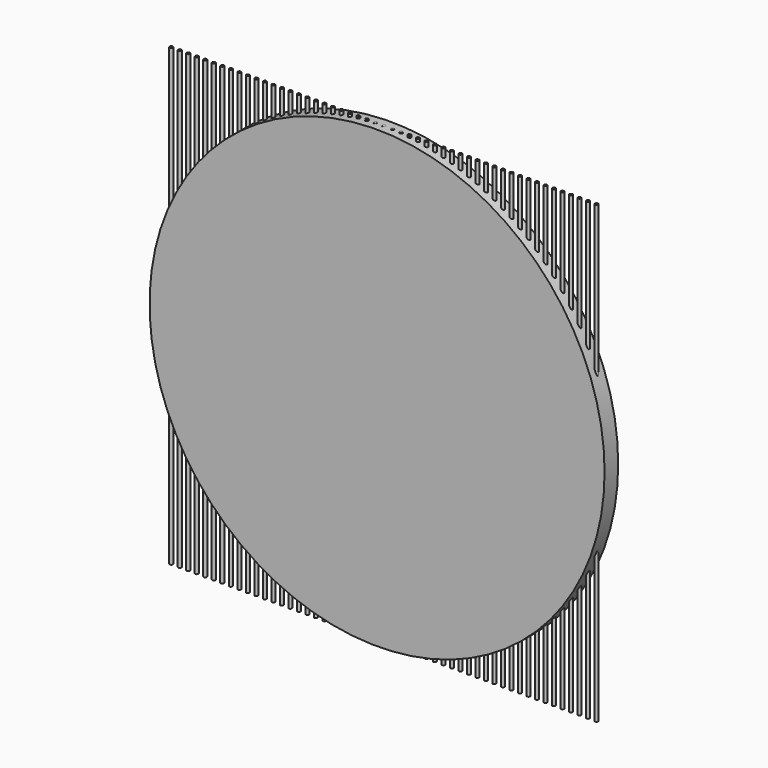
from build123d import *

# Parameters (mm, degrees)
F0_R     = 2.3876
F1_DEPTH = 679.45
F2_R     = 339.725
F3_DEPTH = 12.7


with BuildPart() as f1:
    # F0 (on Top) → F1 (new body)
    with BuildSketch(Plane.XY):
        Circle(F0_R)
        with Locations((12.7, 0)):
            Circle(F0_R)
        with Locations((25.4, 0)):
            Circle(F0_R)
        with Locations((38.1, 0)):
            Circle(F0_R)
        with Locations((50.8, 0)):
            Circle(F0_R)
        with Locations((63.5, 0)):
            Circle(F0_R)
        with Locations((76.2, 0)):
            Circle(F0_R)
        with Locations((88.9, 0)):
            Circle(F0_R)
        with Locations((101.6, 0)):
            Circle(F0_R)
        with Locations((114.3, 0)):
            Circle(F0_R)
        with Locations((127, 0)):
            Circle(F0_R)
        with Locations((139.7, 0)):
            Circle(F0_R)
        with Locations((152.4, 0)):
            Circle(F0_R)
        with Locations((165.1, 0)):
            Circle(F0_R)
        with Locations((177.8, 0)):
            Circle(F0_R)
        with Locations((190.5, 0)):
            Circle(F0_R)
        with Locations((203.2, 0)):
            Circle(F0_R)
        with Locations((215.9, 0)):
            Circle(F0_R)
        with Locations((228.6, 0)):
            Circle(F0_R)
        with Locations((241.3, 0)):
            Circle(F0_R)
        with Locations((254, 0)):
            Circle(F0_R)
        with Locations((266.7, 0)):
            Circle(F0_R)
        with Locations((279.4, 0)):
            Circle(F0_R)
        with Locations((292.1, 0)):
            Circle(F0_R)
        with Locations((304.8, 0)):
            Circle(F0_R)
        with Locations((317.5, 0)):
            Circle(F0_R)
        with Locations((-12.7, 0)):
            Circle(F0_R)
        with Locations((-25.4, 0)):
            Circle(F0_R)
        with Locations((-38.1, 0)):
            Circle(F0_R)
        with Locations((-50.8, 0)):
            Circle(F0_R)
        with Locations((-63.5, 0)):
            Circle(F0_R)
        with Locations((-76.2, 0)):
            Circle(F0_R)
        with Locations((-88.9, 0)):
            Circle(F0_R)
        with Locations((-101.6, 0)):
            Circle(F0_R)
        with Locations((-114.3, 0)):
            Circle(F0_R)
        with Locations((-127, 0)):
            Circle(F0_R)
        with Locations((-139.7, 0)):
            Circle(F0_R)
        with Locations((-152.4, 0)):
            Circle(F0_R)
        with Locations((-165.1, 0)):
            Circle(F0_R)
        with Locations((-177.8, 0)):
            Circle(F0_R)
        with Locations((-190.5, 0)):
            Circle(F0_R)
        with Locations((-203.2, 0)):
            Circle(F0_R)
        with Locations((-215.9, 0)):
            Circle(F0_R)
        with Locations((-228.6, 0)):
            Circle(F0_R)
        with Locations((-241.3, 0)):
            Circle(F0_R)
        with Locations((-254, 0)):
            Circle(F0_R)
        with Locations((-266.7, 0)):
            Circle(F0_R)
        with Locations((-279.4, 0)):
            Circle(F0_R)
        with Locations((-292.1, 0)):
            Circle(F0_R)
        with Locations((-304.8, 0)):
            Circle(F0_R)
        with Locations((-317.5, 0)):
            Circle(F0_R)
    extrude(amount=F1_DEPTH)


with BuildPart() as f3:
    # F2 (on Front) → F3 (new body, symmetric)
    with BuildSketch(Plane.XZ):
        with Locations((0, 339.725)):
            Circle(F2_R)
    extrude(amount=F3_DEPTH, both=True)


solid = Compound([f1.part, f3.part])
